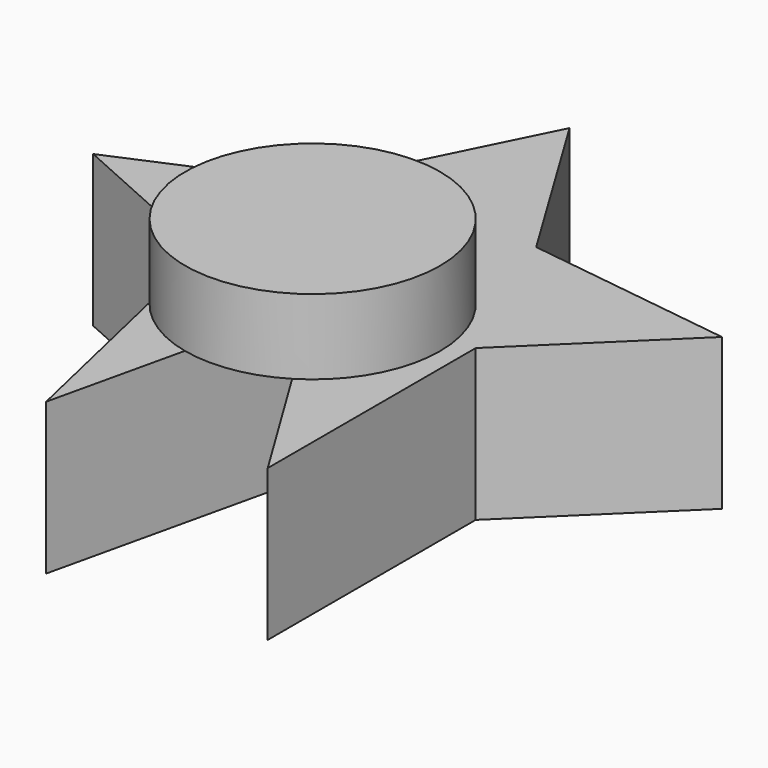
from build123d import *

# Parameters (mm, degrees)
F1_DEPTH = 35.306
F2_R     = 29.733819
F3_DEPTH = 17.526


with BuildPart() as f1:
    # F0 (on Top) → F1 (new body)
    with BuildSketch(Plane.XY):
        Polygon((-6.834473, 83.489791), (-29.494941, 37.89553), (-68.213977, 21.260617), (-28.555268, 3.504229), (-13.849725, -60.445834), (0, 0), (34.043796, -55.656485), (34.043796, 5.008644), (66.349685, 36.453225), (17.759997, 43.004174), align=None)
    extrude(amount=-F1_DEPTH)

    # F2 (on Top) → F3 (join)
    with BuildSketch(Plane.XY):
        Circle(F2_R)
    extrude(amount=F3_DEPTH)


solid = f1.part
